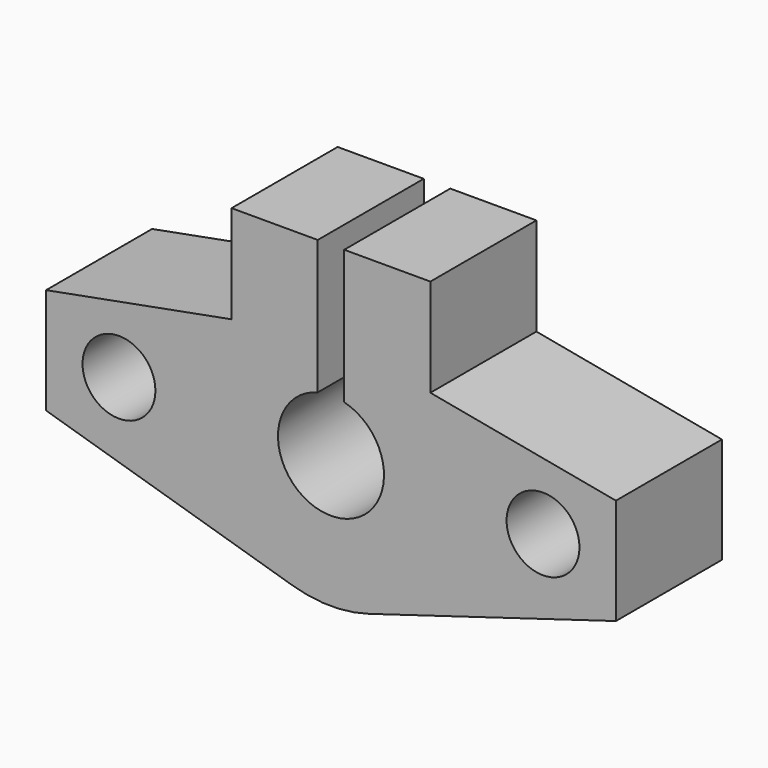
from build123d import *

# Parameters (mm, degrees)
F0_R     = 2.75
F1_DEPTH = 10


with BuildPart() as f1:
    # F0 (on Front) → F1 (new body)
    with BuildSketch(Plane.XZ):
        with BuildLine():
            Line((-21.5, -4), (-2.868905, -9.579634))
            ThreePointArc((-2.868905, -9.579634), (0, -10), (2.868905, -9.579634))
            Line((2.868905, -9.579634), (21.5, -4))
            Line((21.5, -4), (21.5, 4))
            Line((21.5, 4), (7.5, 6.614378))
            Line((7.5, 6.614378), (7.5, 14))
            Line((7.5, 14), (1, 14))
            Line((1, 14), (1, 3.872983))
            ThreePointArc((1, 3.872983), (0, -4), (-1, 3.872983))
            Line((-1, 3.872983), (-1, 14))
            Line((-1, 14), (-7.5, 14))
            Line((-7.5, 14), (-7.5, 6.614378))
            Line((-7.5, 6.614378), (-21.5, 4))
            Line((-21.5, 4), (-21.5, -4))
        make_face()
        with Locations((-16, 0)):
            Circle(F0_R, mode=Mode.SUBTRACT)
        with Locations((16, 0)):
            Circle(F0_R, mode=Mode.SUBTRACT)
    extrude(amount=F1_DEPTH)


solid = f1.part
